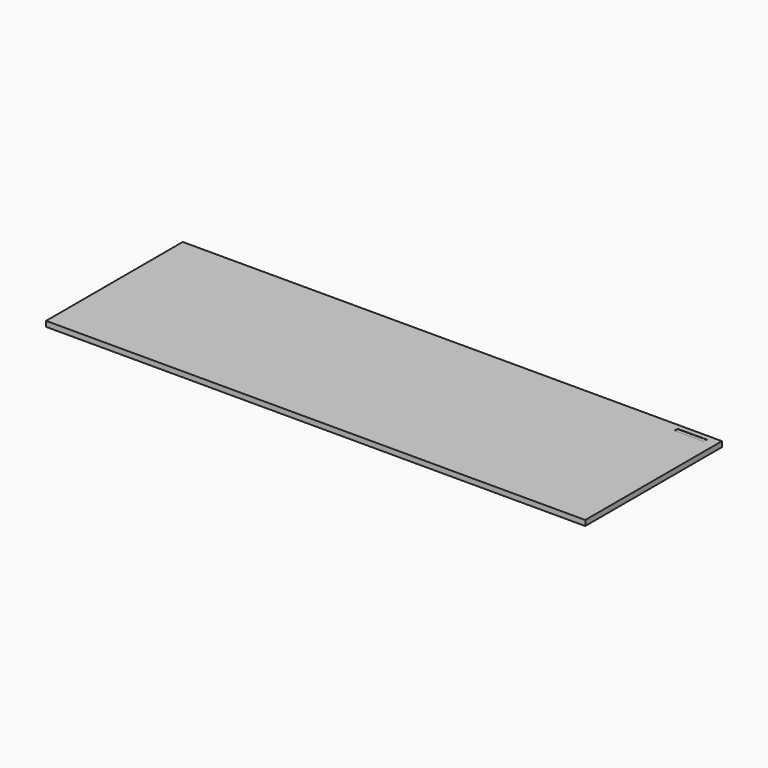
from build123d import *

# Parameters (mm, degrees)
F0_W     = 1282.7
F0_H     = 406.4
F1_DEPTH = 6.35
F2_W     = 69.85
F2_H     = 9.525
F3_DEPTH = 0.635


with BuildPart() as f1:
    # F0 (on Top) → F1 (new body, symmetric)
    with BuildSketch(Plane.XY):
        Rectangle(F0_W, F0_H)
    extrude(amount=F1_DEPTH, both=True)

    # F2 (on face) → F3 (cut)
    with BuildSketch(Plane.XY.offset(6.35)):
        with Locations((581.025, 185.7375)):
            Rectangle(F2_W, F2_H)
    extrude(amount=-F3_DEPTH, mode=Mode.SUBTRACT)


solid = f1.part
